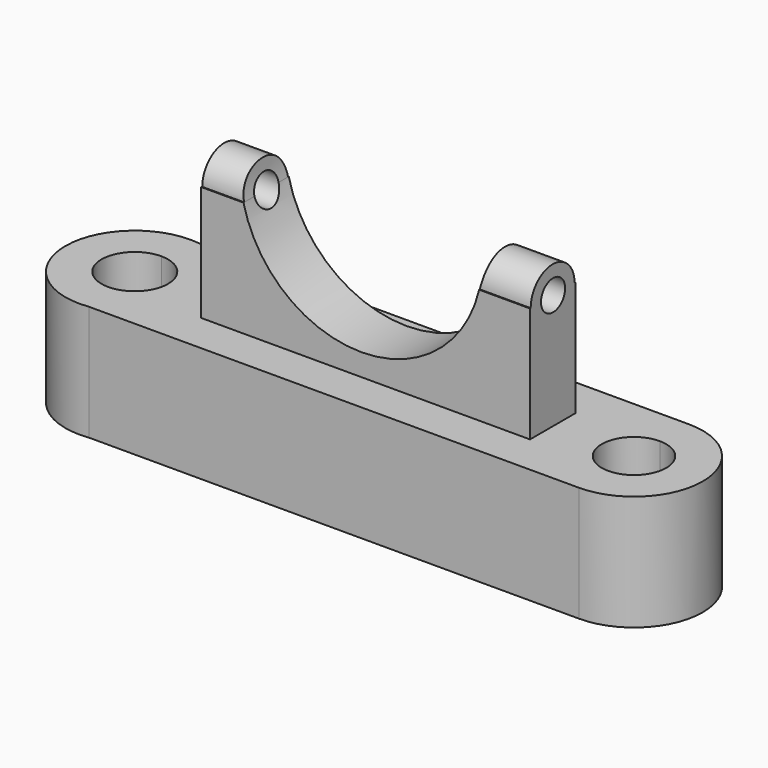
from build123d import *

# Parameters (mm, degrees)
F1_DEPTH = 25.4
F2_W     = 72.5054554641
F2_H     = 12.4690914527
F3_DEPTH = 25.4
F5_DEPTH = 72.39
F6_R     = 3.324206073
F7_DEPTH = 107.4789683862
F9_DEPTH = 21.4076038046


with BuildPart() as f1:
    # F0 (on Top) → F1 (new body)
    with BuildSketch(Plane.XY):
        with BuildLine():
            Line((55.0140924752, 15.1534089819), (-52.9936365783, 15.1534089819))
            ThreePointArc((-52.9936365783, 15.1534089819), (-70.3016052161, 0), (-52.9936365783, -15.1534089819))
            Line((-52.9936365783, -15.1534089819), (55.0140924752, -15.1534089819))
            ThreePointArc((55.0140924752, -15.1534089819), (70.167501457, 0), (55.0140924752, 15.1534089819))
        make_face()
        with BuildLine():
            ThreePointArc((-55.0140924752, -7.3239727508), (-62.338065226, 0), (-55.0140924752, 7.3239727508))
            ThreePointArc((-55.0140924752, 7.3239727508), (-49.8352616778, 5.1788307973), (-47.6901197244, 0))
            ThreePointArc((-47.6901197244, 0), (-49.8352616778, -5.1788307973), (-55.0140924752, -7.3239727508))
        make_face(mode=Mode.SUBTRACT)
        with BuildLine():
            ThreePointArc((55.0140924752, -7.1054389054), (47.9086535698, 0), (55.0140924752, 7.1054389054))
            ThreePointArc((55.0140924752, 7.1054389054), (60.0383965085, 5.0243040333), (62.1195313806, 0))
            ThreePointArc((62.1195313806, 0), (60.0383965085, -5.0243040333), (55.0140924752, -7.1054389054))
        make_face(mode=Mode.SUBTRACT)
    extrude(amount=F1_DEPTH)

    # F2 (on face) → F3 (join)
    with BuildSketch(Plane.XY.offset(25.4)):
        with Locations((0.9236354381, -0.1154546626)):
            Rectangle(F2_W, F2_H)
    extrude(amount=F3_DEPTH)

    # F4 (on face) → F5 (join)
    with BuildSketch(Plane.YZ.offset(37.1763631701)):
        with BuildLine():
            Line((3.0379533135, 50.8), (5.9346302823, 50.8))
            ThreePointArc((5.9346302823, 50.8), (-0.1154546626, 56.8500849449), (-6.1655396075, 50.8))
            Line((-6.1655396075, 50.8), (-3.2688626387, 50.8))
            ThreePointArc((-3.2688626387, 50.8), (-0.1154546626, 53.9534079761), (3.0379533135, 50.8))
        make_face()
    extrude(amount=-F5_DEPTH)

    # F6 (on face) → F7 (cut, through all)
    with BuildSketch(Plane.YZ.offset(37.1763631701)):
        with Locations((0, 50.8)):
            Circle(F6_R)
        with BuildLine():
            ThreePointArc((-3.2688626387, 50.8), (-0.1154546626, 53.9534079761), (3.0379533135, 50.8))
            Line((3.0379533135, 50.8), (-3.2688626387, 50.8))
        make_face(mode=Mode.SUBTRACT)
        with Locations((0, 50.8)):
            Circle(F6_R)
        with BuildLine():
            ThreePointArc((-3.2688626387, 50.8), (-0.1154546626, 53.9534079761), (3.0379533135, 50.8))
            Line((3.0379533135, 50.8), (-3.2688626387, 50.8))
        make_face(mode=Mode.SUBTRACT)
    extrude(amount=-F7_DEPTH, mode=Mode.SUBTRACT)

    # F8 (on face) → F9 (cut, through all)
    with BuildSketch(Plane(origin=(0, 6.1190910637, 0), x_dir=(-1, 0, 0), z_dir=(0, 1, 0))):
        with BuildLine():
            Line((25.97059982, 50.8), (-25.97059982, 50.8))
            ThreePointArc((-25.97059982, 50.8), (0, 30.2373519431), (25.97059982, 50.8))
        make_face()
        with BuildLine():
            ThreePointArc((25.97059982, 50.8), (26.5033603392, 53.8389546874), (26.681742232, 56.9190941751))
            ThreePointArc((26.681742232, 56.9190941751), (-3.0801394877, 83.4224545143), (-25.97059982, 50.8))
            Line((-25.97059982, 50.8), (25.97059982, 50.8))
        make_face()
    extrude(amount=-F9_DEPTH, mode=Mode.SUBTRACT)


solid = f1.part
